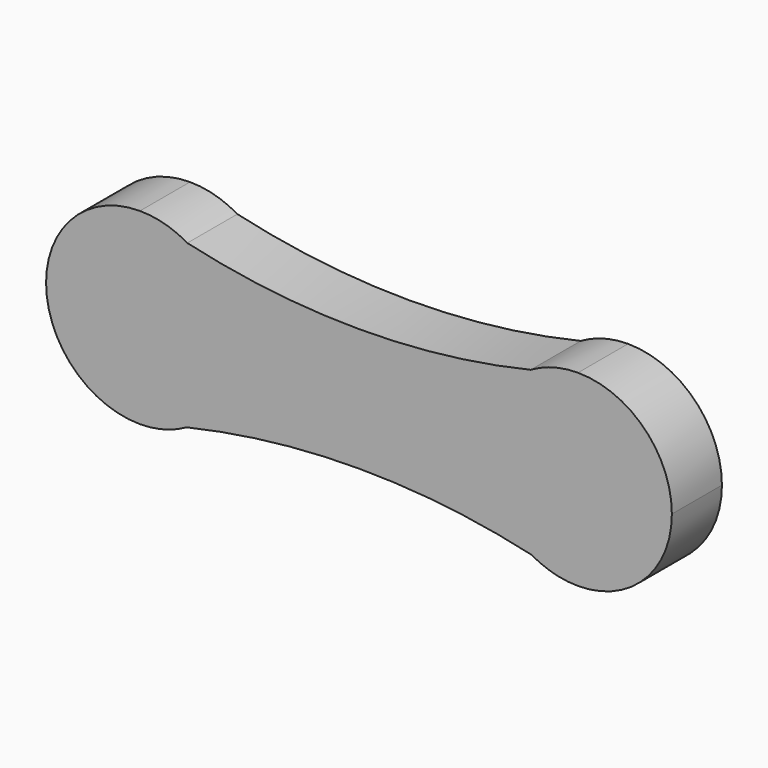
from build123d import *

# Parameters (mm, degrees)
F1_DEPTH = 25.4


with BuildPart() as f1:
    # F0 (on Front) → F1 (new body)
    with BuildSketch(Plane.XZ):
        with BuildLine():
            ThreePointArc((-68.710327, 33.640357), (-78.368489, 36.087185), (-87.941101, 38.849822))
            ThreePointArc((-87.941101, 38.849822), (-126.041101, 0.749822), (-87.941101, -37.350178))
            ThreePointArc((-87.941101, -37.350178), (-78.525854, -34.688767), (-69.031201, -32.326237))
            ThreePointArc((-69.031201, -32.326237), (-54.986001, -18.3701), (-49.841101, 0.749822))
            ThreePointArc((-49.841101, 0.749822), (-54.893389, 19.709219), (-68.710327, 33.640357))
        make_face()
        with BuildLine():
            ThreePointArc((-68.710327, 33.640357), (-77.979158, 37.524402), (-87.941101, 38.849822))
            ThreePointArc((-87.941101, 38.849822), (-78.368489, 36.087185), (-68.710327, 33.640357))
        make_face()
        with BuildLine():
            ThreePointArc((-69.031201, -32.326237), (-78.525854, -34.688767), (-87.941101, -37.350178))
            ThreePointArc((-87.941101, -37.350178), (-78.158152, -36.072779), (-69.031201, -32.326237))
        make_face()
        with BuildLine():
            ThreePointArc((70.628125, 33.640357), (0.958899, 25.532804), (-68.710327, 33.640357))
            ThreePointArc((-68.710327, 33.640357), (-54.893389, 19.709219), (-49.841101, 0.749822))
            ThreePointArc((-49.841101, 0.749822), (-54.986001, -18.3701), (-69.031201, -32.326237))
            ThreePointArc((-69.031201, -32.326237), (0.958899, -24.31012), (70.948999, -32.326237))
            ThreePointArc((70.948999, -32.326237), (51.75935, 0.564499), (70.628125, 33.640357))
        make_face()
        with BuildLine():
            ThreePointArc((89.858899, 38.849822), (80.286287, 36.087185), (70.628125, 33.640357))
            ThreePointArc((70.628125, 33.640357), (51.75935, 0.564499), (70.948999, -32.326237))
            ThreePointArc((70.948999, -32.326237), (80.443652, -34.688767), (89.858899, -37.350178))
            ThreePointArc((89.858899, -37.350178), (116.799668, -26.190946), (127.958899, 0.749822))
            ThreePointArc((127.958899, 0.749822), (116.799668, 27.69059), (89.858899, 38.849822))
        make_face()
        with BuildLine():
            ThreePointArc((89.858899, 38.849822), (79.896957, 37.524402), (70.628125, 33.640357))
            ThreePointArc((70.628125, 33.640357), (80.286287, 36.087185), (89.858899, 38.849822))
        make_face()
        with BuildLine():
            ThreePointArc((89.858899, -37.350178), (80.443652, -34.688767), (70.948999, -32.326237))
            ThreePointArc((70.948999, -32.326237), (80.075951, -36.072779), (89.858899, -37.350178))
        make_face()
    extrude(amount=F1_DEPTH)


solid = f1.part
